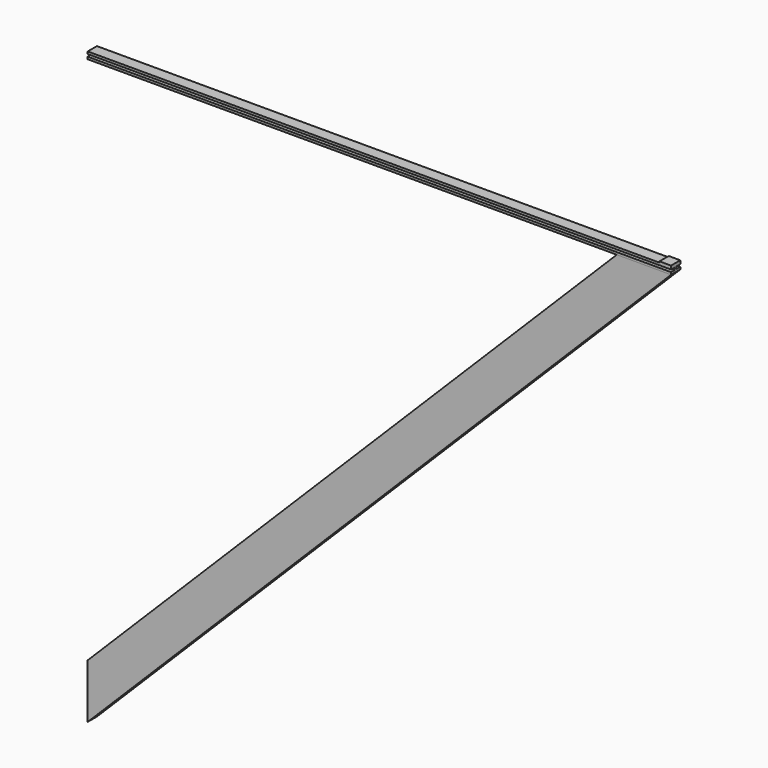
from build123d import *

# Parameters (mm, degrees)
F1_DEPTH = 505
F2_W     = 10
F2_H     = 10
F3_DEPTH = 1
F4_W     = 10
F4_H     = 505
F5_DEPTH = 505
F7_DEPTH = 10.001
F9_DEPTH = 10.001


with BuildPart() as f1:
    # F0 (on Right) → F1 (new body)
    with BuildSketch(Plane.YZ):
        Polygon((-1, 1), (-1, 0), (-1, -1), (-5, -1), (-5, -3), (0, -3), (5, -3), (5, -1), (1, -1), (1, 0), (1, 1), (5, 1), (5, 3), (0, 3), (-5, 3), (-5, 1), align=None)
    extrude(amount=F1_DEPTH)

    # F2 (on face) → F3 (join)
    with BuildSketch(Plane.XY.offset(3)):
        with Locations((500, 0)):
            Rectangle(F2_W, F2_H)
    extrude(amount=F3_DEPTH)


with BuildPart() as f5:
    # F4 (on Right) → F5 (new body)
    with BuildSketch(Plane.YZ):
        with Locations((0.050011, -255.503209)):
            Rectangle(F4_W, F4_H)
    extrude(amount=F5_DEPTH)

    # F6 (on face) → F7 (cut, through all)
    with BuildSketch(Plane.XZ.offset(4.949989)):
        Polygon((458, -3.003209), (0, -3.003209), (0, -461.003209), align=None)
    extrude(amount=-F7_DEPTH, mode=Mode.SUBTRACT)

    # F8 (on face) → F9 (cut, through all)
    with BuildSketch(Plane.XZ.offset(4.949989)):
        Polygon((505, -3.003209), (0, -508.003209), (505, -508.003209), align=None)
    extrude(amount=-F9_DEPTH, mode=Mode.SUBTRACT)


solid = Compound([f1.part, f5.part])
